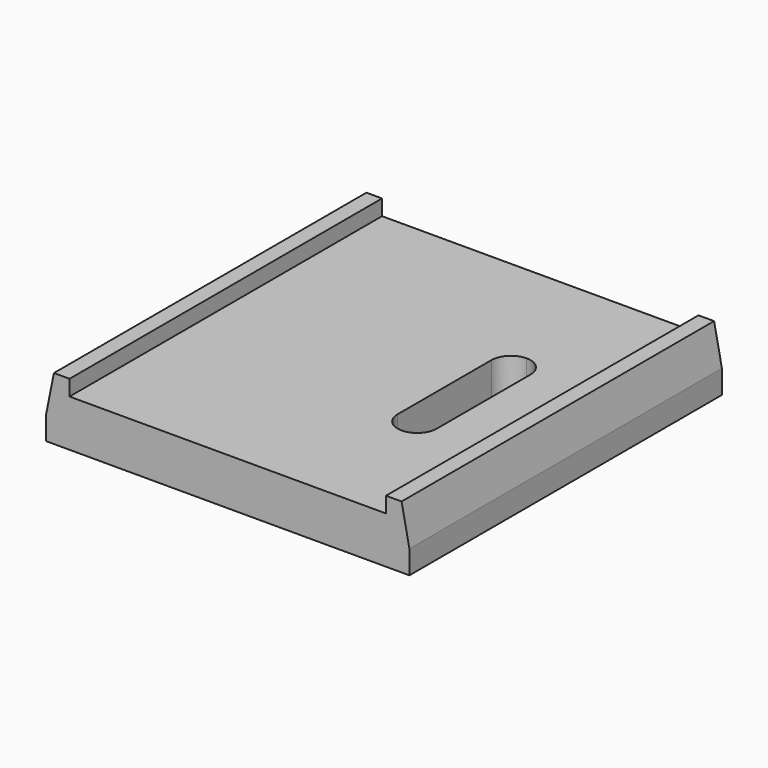
from build123d import *

# Parameters (mm, degrees)
F1_DEPTH = 50
F2_SIZE2 = 1
F2_SIZE  = 5
F3_SIZE2 = 5
F3_SIZE  = 1
F5_DEPTH = 25


with BuildPart() as f1:
    # F0 (on Front) → F1 (new body)
    with BuildSketch(Plane.XZ):
        Polygon((40.5, 0), (0, 0), (0, 2), (-3, 2), (-3, -6), (0, -6), (40.5, -6), (43.5, -6), (43.5, 2), (40.5, 2), align=None)
    extrude(amount=F1_DEPTH)

    # F2
    f2_edges = [f1.edges().sort_by_distance(p)[0] for p in [
        (-3, -25, 2),
    ]]
    f2_side = f1.faces().sort_by_distance((-3, -25, -2))[0]
    chamfer(f2_edges, length=F2_SIZE, length2=F2_SIZE2, reference=f2_side)

    # F3
    f3_edges = [f1.edges().sort_by_distance(p)[0] for p in [
        (43.5, -25, 2),
    ]]
    f3_side = f1.faces().sort_by_distance((42, -25, 2))[0]
    chamfer(f3_edges, length=F3_SIZE, length2=F3_SIZE2, reference=f3_side)

    # F4 (on face) → F5 (cut)
    with BuildSketch(Plane.XY):
        with BuildLine():
            ThreePointArc((30.5, -35), (32.267766953, -34.267766953), (33, -32.5))
            Line((33, -32.5), (33, -17.5))
            ThreePointArc((33, -17.5), (32.267766953, -15.732233047), (30.5, -15))
            ThreePointArc((30.5, -15), (28.732233047, -15.732233047), (28, -17.5))
            Line((28, -17.5), (28, -32.5))
            ThreePointArc((28, -32.5), (28.732233047, -34.267766953), (30.5, -35))
        make_face()
    extrude(amount=-F5_DEPTH, mode=Mode.SUBTRACT)


solid = f1.part
